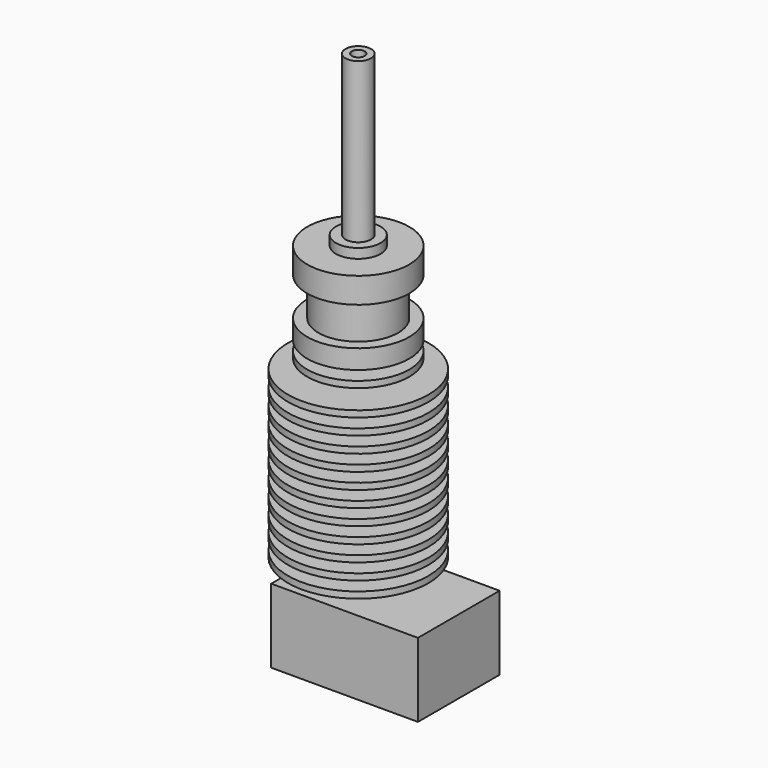
from build123d import *

# Parameters (mm, degrees)
F3_DEPTH  = 3
F4_W      = 23
F4_H      = 16
F5_DEPTH  = 11.6
F6_R      = 1.375
F7_DEPTH  = 2.75
F10_R     = 3.5
F11_DEPTH = 1.5
F12_R     = 2
F12_R_2   = 1
F13_DEPTH = 25


with BuildPart() as f1:
    # F0 (on Right) → F1 (revolve)
    with BuildSketch(Plane.YZ):
        Polygon((0, 2), (0, 0), (0.5, 0), (2, 2), align=None)
    revolve(axis=Axis((0, 0, 1), (0, 0, -1)))

    # F2 (on face) → F3 (join)
    with BuildSketch(Plane.XY.offset(2)):
        Polygon((2.020726, 3.5), (-2.020726, 3.5), (-4.041452, 0), (-2.020726, -3.5), (2.020726, -3.5), (4.041452, 0), align=None)
    extrude(amount=F3_DEPTH)

    # F4 (on face) → F5 (join)
    with BuildSketch(Plane.XY.offset(5)):
        with Locations((4.258548, 0)):
            Rectangle(F4_W, F4_H)
    extrude(amount=F5_DEPTH)

    # F6 (on face) → F7 (join)
    with BuildSketch(Plane.XY.offset(16.6)):
        Circle(F6_R)
    extrude(amount=F7_DEPTH)

    # F8 (on Front) → F9 (revolve)
    with BuildSketch(Plane.XZ):
        Polygon((0, 45.35), (0, 19.35), (1.375, 19.35), (11, 19.35), (11, 20.35), (6, 20.35), (5.89625, 21.85), (11, 21.85), (11, 22.85), (5.827083, 22.85), (5.723333, 24.35), (11, 24.35), (11, 25.35), (5.654167, 25.35), (5.550417, 26.85), (11, 26.85), (11, 27.85), (5.48125, 27.85), (5.3775, 29.35), (11, 29.35), (11, 30.35), (5.308333, 30.35), (5.204583, 31.85), (11, 31.85), (11, 32.85), (5.135417, 32.85), (5.031667, 34.35), (11, 34.35), (11, 35.35), (4.9625, 35.35), (4.85875, 36.85), (11, 36.85), (11, 37.85), (4.789583, 37.85), (4.685833, 39.35), (11, 39.35), (11, 40.35), (4.616667, 40.35), (4.512917, 41.85), (11, 41.85), (11, 42.85), (4.44375, 42.85), (4.34, 44.35), (11, 44.35), (11, 45.35), (4.270833, 45.35), (4.167083, 46.85), (8, 46.85), (8, 47.85), (4.097917, 47.85), (3.994167, 49.35), (8, 49.35), (8, 52.35), (6.25, 52.35), (6.25, 58.35), (8, 58.35), (8, 62.35), (0, 62.35), (0, 46.85), align=None)
    revolve(axis=Axis((0, 0, 40.529307), (0, 0, 1)))

    # F10 (on face) → F11 (join)
    with BuildSketch(Plane.XY.offset(62.35)):
        Circle(F10_R)
    extrude(amount=F11_DEPTH)

    # F12 (on face) → F13 (join)
    with BuildSketch(Plane.XY.offset(63.85)):
        Circle(F12_R)
        Circle(F12_R_2, mode=Mode.SUBTRACT)
    extrude(amount=F13_DEPTH)


solid = f1.part
